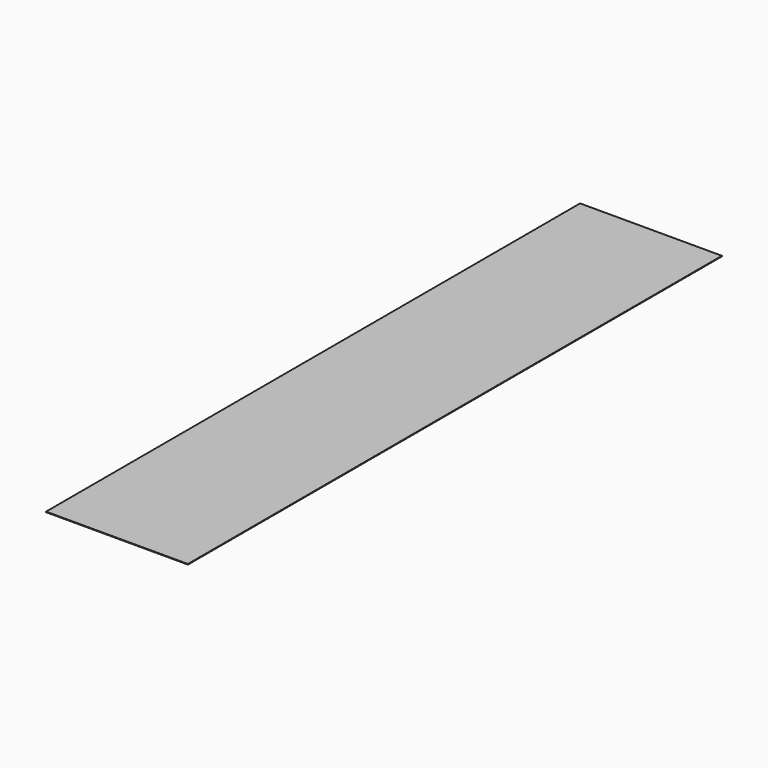
from build123d import *

# Parameters (mm, degrees)
SKETCH_W  = 2590.8
SKETCH_H  = 12192
PAD_DEPTH = 10


with BuildPart() as part:
    # Sketch → Pad (new body)
    with BuildSketch(Plane.XY):
        with Locations((1295.4, 6096)):
            Rectangle(SKETCH_W, SKETCH_H)
    extrude(amount=-PAD_DEPTH)


solid = part.part
